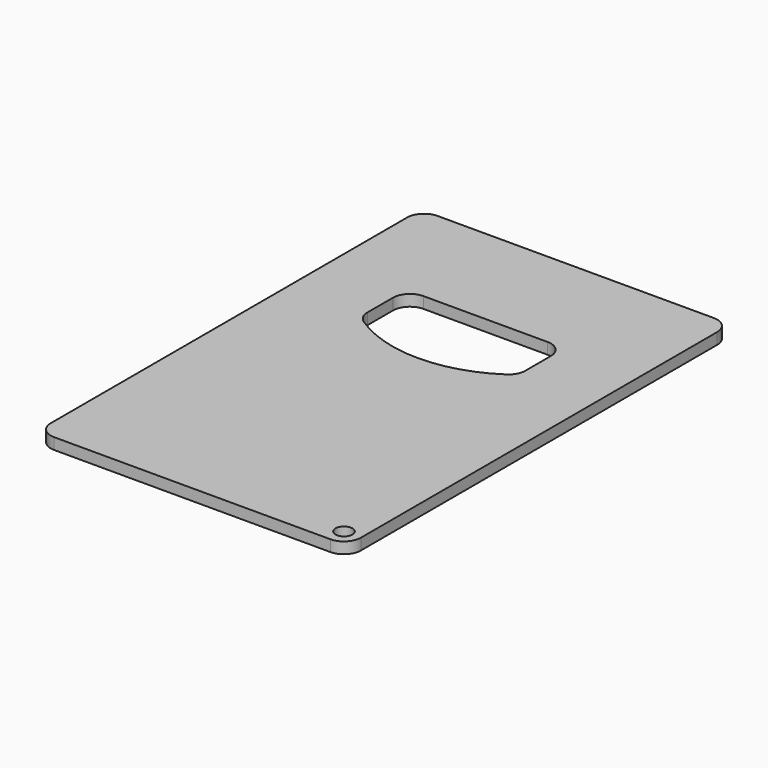
from build123d import *

# Parameters (mm, degrees)
F0_R     = 1.5
F1_DEPTH = 2


with BuildPart() as f1:
    # F0 (on Top) → F1 (new body)
    with BuildSketch(Plane.XY):
        with BuildLine():
            ThreePointArc((27.5, 39.5), (26.62132, 41.62132), (24.5, 42.5))
            Line((24.5, 42.5), (-24.5, 42.5))
            ThreePointArc((-24.5, 42.5), (-26.62132, 41.62132), (-27.5, 39.5))
            Line((-27.5, 39.5), (-27.5, -39.5))
            ThreePointArc((-27.5, -39.5), (-26.62132, -41.62132), (-24.5, -42.5))
            Line((-24.5, -42.5), (24.5, -42.5))
            ThreePointArc((24.5, -42.5), (26.62132, -41.62132), (27.5, -39.5))
            Line((27.5, -39.5), (27.5, 39.5))
        make_face()
        with Locations((24.5, -39.5)):
            Circle(F0_R, mode=Mode.SUBTRACT)
        with BuildLine():
            Line((14, 19.5), (14, 13.833333))
            ThreePointArc((14, 13.833333), (13.645354, 12.418377), (12.665265, 11.337959))
            ThreePointArc((12.665265, 11.337959), (6.617002, 8.48056), (0, 7.5))
            ThreePointArc((0, 7.5), (-6.617002, 8.48056), (-12.665265, 11.337959))
            ThreePointArc((-12.665265, 11.337959), (-13.645354, 12.418377), (-14, 13.833333))
            Line((-14, 13.833333), (-14, 19.5))
            ThreePointArc((-14, 19.5), (-13.12132, 21.62132), (-11, 22.5))
            Line((-11, 22.5), (0, 22.5))
            Line((0, 22.5), (11, 22.5))
            ThreePointArc((11, 22.5), (13.12132, 21.62132), (14, 19.5))
        make_face(mode=Mode.SUBTRACT)
    extrude(amount=F1_DEPTH)


solid = f1.part
